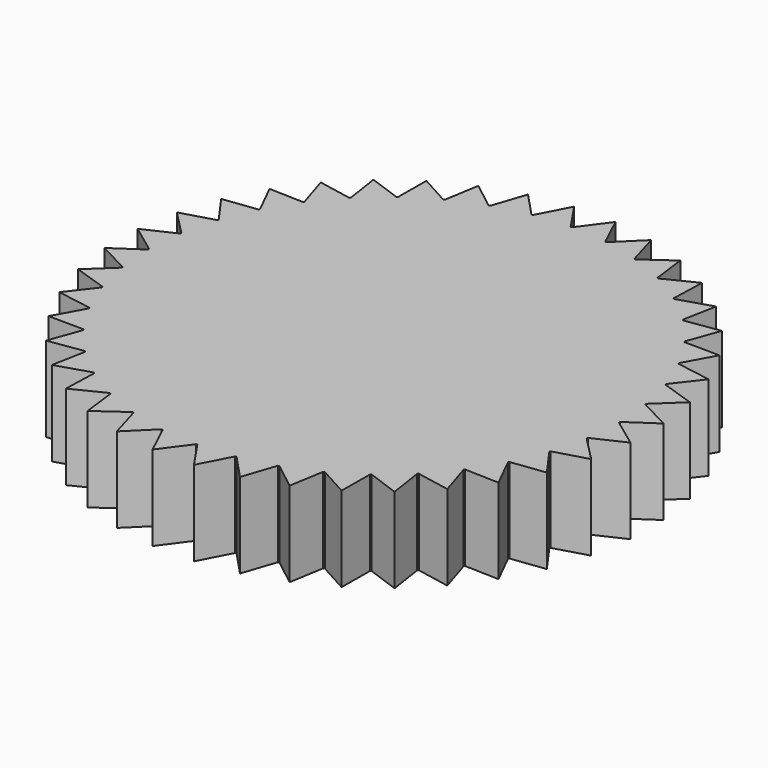
from build123d import *

# Parameters (mm, degrees)
F1_DEPTH = 12.7


with BuildPart() as f1:
    # F0 (on Top) → F1 (new body)
    with BuildSketch(Plane.XY):
        with BuildLine():
            ThreePointArc((34.693947, -5.306769), (34.996437, -2.661044), (35.09746, 0))
            ThreePointArc((35.09746, 0), (35.097337, 0.092948), (35.096968, 0.185896))
            ThreePointArc((35.096968, 0.185896), (34.981851, 2.846367), (34.665353, 5.490452))
            ThreePointArc((34.665353, 5.490452), (34.650691, 5.582237), (34.635786, 5.673982))
            ThreePointArc((34.635786, 5.673982), (34.105897, 8.283691), (33.379669, 10.845712))
            ThreePointArc((33.379669, 10.845712), (33.350829, 10.934073), (33.321755, 11.022357))
            ThreePointArc((33.321755, 11.022357), (32.390142, 13.517042), (31.272066, 15.933914))
            ThreePointArc((31.272066, 15.933914), (31.229759, 16.016675), (31.187233, 16.099324))
            ThreePointArc((31.187233, 16.099324), (29.876834, 18.41756), (28.394442, 20.62977))
            ThreePointArc((28.394442, 20.62977), (28.339709, 20.704894), (28.284777, 20.779873))
            ThreePointArc((28.284777, 20.779873), (26.62786, 22.864576), (24.817652, 24.817652))
            ThreePointArc((24.817652, 24.817652), (24.751841, 24.88329), (24.685856, 24.948752))
            ThreePointArc((24.685856, 24.948752), (22.723219, 26.74859), (20.62977, 28.394442))
            ThreePointArc((20.62977, 28.394442), (20.554501, 28.448976), (20.479088, 28.50331))
            ThreePointArc((20.479088, 28.50331), (18.259057, 29.973965), (15.933914, 31.272066))
            ThreePointArc((15.933914, 31.272066), (15.85104, 31.314154), (15.768056, 31.356022))
            ThreePointArc((15.768056, 31.356022), (13.345297, 32.461281), (10.845712, 33.379669))
            ThreePointArc((10.845712, 33.379669), (10.757275, 33.408274), (10.668762, 33.436645))
            ThreePointArc((10.668762, 33.436645), (8.102931, 34.149293), (5.490452, 34.665353))
            ThreePointArc((5.490452, 34.665353), (5.398629, 34.679771), (5.306769, 34.693947))
            ThreePointArc((5.306769, 34.693947), (2.661044, 34.996437), (0, 35.09746))
            ThreePointArc((0, 35.09746), (-0.092948, 35.097337), (-0.185896, 35.096968))
            ThreePointArc((-0.185896, 35.096968), (-2.846367, 34.981851), (-5.490452, 34.665353))
            ThreePointArc((-5.490452, 34.665353), (-5.582237, 34.650691), (-5.673982, 34.635786))
            ThreePointArc((-5.673982, 34.635786), (-8.283691, 34.105897), (-10.845712, 33.379669))
            ThreePointArc((-10.845712, 33.379669), (-10.934073, 33.350829), (-11.022357, 33.321755))
            ThreePointArc((-11.022357, 33.321755), (-13.517042, 32.390142), (-15.933914, 31.272066))
            ThreePointArc((-15.933914, 31.272066), (-16.016675, 31.229759), (-16.099324, 31.187233))
            ThreePointArc((-16.099324, 31.187233), (-18.41756, 29.876834), (-20.62977, 28.394442))
            ThreePointArc((-20.62977, 28.394442), (-20.704894, 28.339709), (-20.779873, 28.284777))
            ThreePointArc((-20.779873, 28.284777), (-22.864576, 26.62786), (-24.817652, 24.817652))
            ThreePointArc((-24.817652, 24.817652), (-24.88329, 24.751841), (-24.948752, 24.685856))
            ThreePointArc((-24.948752, 24.685856), (-26.74859, 22.723219), (-28.394442, 20.62977))
            ThreePointArc((-28.394442, 20.62977), (-28.448976, 20.554501), (-28.50331, 20.479088))
            ThreePointArc((-28.50331, 20.479088), (-29.973965, 18.259057), (-31.272066, 15.933914))
            ThreePointArc((-31.272066, 15.933914), (-31.314154, 15.85104), (-31.356022, 15.768056))
            ThreePointArc((-31.356022, 15.768056), (-32.461281, 13.345297), (-33.379669, 10.845712))
            ThreePointArc((-33.379669, 10.845712), (-33.408274, 10.757275), (-33.436645, 10.668762))
            ThreePointArc((-33.436645, 10.668762), (-34.149293, 8.102931), (-34.665353, 5.490452))
            ThreePointArc((-34.665353, 5.490452), (-34.679771, 5.398629), (-34.693947, 5.306769))
            ThreePointArc((-34.693947, 5.306769), (-34.996437, 2.661044), (-35.09746, 0))
            ThreePointArc((-35.09746, 0), (-35.097337, -0.092948), (-35.096968, -0.185896))
            ThreePointArc((-35.096968, -0.185896), (-34.981851, -2.846367), (-34.665353, -5.490452))
            ThreePointArc((-34.665353, -5.490452), (-34.650691, -5.582237), (-34.635786, -5.673982))
            ThreePointArc((-34.635786, -5.673982), (-34.105897, -8.283691), (-33.379669, -10.845712))
            ThreePointArc((-33.379669, -10.845712), (-33.350829, -10.934073), (-33.321755, -11.022357))
            ThreePointArc((-33.321755, -11.022357), (-32.390142, -13.517042), (-31.272066, -15.933914))
            ThreePointArc((-31.272066, -15.933914), (-31.229759, -16.016675), (-31.187233, -16.099324))
            ThreePointArc((-31.187233, -16.099324), (-29.876834, -18.41756), (-28.394442, -20.62977))
            ThreePointArc((-28.394442, -20.62977), (-28.339709, -20.704894), (-28.284777, -20.779873))
            ThreePointArc((-28.284777, -20.779873), (-26.62786, -22.864576), (-24.817652, -24.817652))
            ThreePointArc((-24.817652, -24.817652), (-24.751841, -24.88329), (-24.685856, -24.948752))
            ThreePointArc((-24.685856, -24.948752), (-22.723219, -26.74859), (-20.62977, -28.394442))
            ThreePointArc((-20.62977, -28.394442), (-20.554501, -28.448976), (-20.479088, -28.50331))
            ThreePointArc((-20.479088, -28.50331), (-18.259057, -29.973965), (-15.933914, -31.272066))
            ThreePointArc((-15.933914, -31.272066), (-15.85104, -31.314154), (-15.768056, -31.356022))
            ThreePointArc((-15.768056, -31.356022), (-13.345297, -32.461281), (-10.845712, -33.379669))
            ThreePointArc((-10.845712, -33.379669), (-10.757275, -33.408274), (-10.668762, -33.436645))
            ThreePointArc((-10.668762, -33.436645), (-8.102931, -34.149293), (-5.490452, -34.665353))
            ThreePointArc((-5.490452, -34.665353), (-5.398629, -34.679771), (-5.306769, -34.693947))
            ThreePointArc((-5.306769, -34.693947), (-2.661044, -34.996437), (0, -35.09746))
            ThreePointArc((0, -35.09746), (0.092948, -35.097337), (0.185896, -35.096968))
            ThreePointArc((0.185896, -35.096968), (2.846367, -34.981851), (5.490452, -34.665353))
            ThreePointArc((5.490452, -34.665353), (5.582237, -34.650691), (5.673982, -34.635786))
            ThreePointArc((5.673982, -34.635786), (8.283691, -34.105897), (10.845712, -33.379669))
            ThreePointArc((10.845712, -33.379669), (10.934073, -33.350829), (11.022357, -33.321755))
            ThreePointArc((11.022357, -33.321755), (13.517042, -32.390142), (15.933914, -31.272066))
            ThreePointArc((15.933914, -31.272066), (16.016675, -31.229759), (16.099324, -31.187233))
            ThreePointArc((16.099324, -31.187233), (18.41756, -29.876834), (20.62977, -28.394442))
            ThreePointArc((20.62977, -28.394442), (20.704894, -28.339709), (20.779873, -28.284777))
            ThreePointArc((20.779873, -28.284777), (22.864576, -26.62786), (24.817652, -24.817652))
            ThreePointArc((24.817652, -24.817652), (24.88329, -24.751841), (24.948752, -24.685856))
            ThreePointArc((24.948752, -24.685856), (26.74859, -22.723219), (28.394442, -20.62977))
            ThreePointArc((28.394442, -20.62977), (28.448976, -20.554501), (28.50331, -20.479088))
            ThreePointArc((28.50331, -20.479088), (29.973965, -18.259057), (31.272066, -15.933914))
            ThreePointArc((31.272066, -15.933914), (31.314154, -15.85104), (31.356022, -15.768056))
            ThreePointArc((31.356022, -15.768056), (32.461281, -13.345297), (33.379669, -10.845712))
            ThreePointArc((33.379669, -10.845712), (33.408274, -10.757275), (33.436645, -10.668762))
            ThreePointArc((33.436645, -10.668762), (34.149293, -8.102931), (34.665353, -5.490452))
            ThreePointArc((34.665353, -5.490452), (34.679771, -5.398629), (34.693947, -5.306769))
        make_face()
        with BuildLine():
            Line((39.324641, -3.129642), (35.09746, 0))
            ThreePointArc((35.09746, 0), (34.996437, -2.661044), (34.693947, -5.306769))
            Line((34.693947, -5.306769), (39.324641, -3.129642))
        make_face()
        with BuildLine():
            ThreePointArc((34.665353, 5.490452), (34.981851, 2.846367), (35.096968, 0.185896))
            Line((35.096968, 0.185896), (39.330073, 3.060619))
            Line((39.330073, 3.060619), (34.665353, 5.490452))
        make_face()
        with BuildLine():
            Line((38.350906, -9.24284), (34.665353, -5.490452))
            ThreePointArc((34.665353, -5.490452), (34.149293, -8.102931), (33.436645, -10.668762))
            Line((33.436645, -10.668762), (38.350906, -9.24284))
        make_face()
        with BuildLine():
            ThreePointArc((33.379669, 10.845712), (34.105897, 8.283691), (34.635786, 5.673982))
            Line((34.635786, 5.673982), (38.367069, 9.175516))
            Line((38.367069, 9.175516), (33.379669, 10.845712))
        make_face()
        with BuildLine():
            Line((36.432844, -15.128449), (33.379669, -10.845712))
            ThreePointArc((33.379669, -10.845712), (32.461281, -13.345297), (31.356022, -15.768056))
            Line((31.356022, -15.768056), (36.432844, -15.128449))
        make_face()
        with BuildLine():
            ThreePointArc((31.272066, 15.933914), (32.390142, 13.517042), (33.321755, 11.022357))
            Line((33.321755, 11.022357), (36.45934, 15.064482))
            Line((36.45934, 15.064482), (31.272066, 15.933914))
        make_face()
        with BuildLine():
            Line((33.617684, -20.641545), (31.272066, -15.933914))
            ThreePointArc((31.272066, -15.933914), (29.973965, -18.259057), (28.50331, -20.479088))
            Line((28.50331, -20.479088), (33.617684, -20.641545))
        make_face()
        with BuildLine():
            ThreePointArc((28.394442, 20.62977), (29.876834, 18.41756), (31.187233, 16.099324))
            Line((31.187233, 16.099324), (33.65386, 20.582511))
            Line((33.65386, 20.582511), (28.394442, 20.62977))
        make_face()
        with BuildLine():
            Line((29.974746, -25.646378), (28.394442, -20.62977))
            ThreePointArc((28.394442, -20.62977), (26.74859, -22.723219), (24.948752, -24.685856))
            Line((24.948752, -24.685856), (29.974746, -25.646378))
        make_face()
        with BuildLine():
            ThreePointArc((24.817652, 24.817652), (26.62786, 22.864576), (28.284777, 20.779873))
            Line((28.284777, 20.779873), (30.019711, 25.59373))
            Line((30.019711, 25.59373), (24.817652, 24.817652))
        make_face()
        with BuildLine():
            Line((25.59373, -30.019711), (24.817652, -24.817652))
            ThreePointArc((24.817652, -24.817652), (22.864576, -26.62786), (20.779873, -28.284777))
            Line((20.779873, -28.284777), (25.59373, -30.019711))
        make_face()
        with BuildLine():
            ThreePointArc((20.62977, 28.394442), (22.723219, 26.74859), (24.685856, 24.948752))
            Line((24.685856, 24.948752), (25.646378, 29.974746))
            Line((25.646378, 29.974746), (20.62977, 28.394442))
        make_face()
        with BuildLine():
            Line((20.582511, -33.65386), (20.62977, -28.394442))
            ThreePointArc((20.62977, -28.394442), (18.41756, -29.876834), (16.099324, -31.187233))
            Line((16.099324, -31.187233), (20.582511, -33.65386))
        make_face()
        with BuildLine():
            ThreePointArc((15.933914, 31.272066), (18.259057, 29.973965), (20.479088, 28.50331))
            Line((20.479088, 28.50331), (20.641545, 33.617684))
            Line((20.641545, 33.617684), (15.933914, 31.272066))
        make_face()
        with BuildLine():
            Line((15.064482, -36.45934), (15.933914, -31.272066))
            ThreePointArc((15.933914, -31.272066), (13.517042, -32.390142), (11.022357, -33.321755))
            Line((11.022357, -33.321755), (15.064482, -36.45934))
        make_face()
        with BuildLine():
            ThreePointArc((10.845712, 33.379669), (13.345297, 32.461281), (15.768056, 31.356022))
            Line((15.768056, 31.356022), (15.128449, 36.432844))
            Line((15.128449, 36.432844), (10.845712, 33.379669))
        make_face()
        with BuildLine():
            Line((9.175516, -38.367069), (10.845712, -33.379669))
            ThreePointArc((10.845712, -33.379669), (8.283691, -34.105897), (5.673982, -34.635786))
            Line((5.673982, -34.635786), (9.175516, -38.367069))
        make_face()
        with BuildLine():
            ThreePointArc((5.490452, 34.665353), (8.102931, 34.149293), (10.668762, 33.436645))
            Line((10.668762, 33.436645), (9.24284, 38.350906))
            Line((9.24284, 38.350906), (5.490452, 34.665353))
        make_face()
        with BuildLine():
            Line((3.060619, -39.330073), (5.490452, -34.665353))
            ThreePointArc((5.490452, -34.665353), (2.846367, -34.981851), (0.185896, -35.096968))
            Line((0.185896, -35.096968), (3.060619, -39.330073))
        make_face()
        with BuildLine():
            ThreePointArc((0, 35.09746), (2.661044, 34.996437), (5.306769, 34.693947))
            Line((5.306769, 34.693947), (3.129642, 39.324641))
            Line((3.129642, 39.324641), (0, 35.09746))
        make_face()
        with BuildLine():
            Line((-3.129642, -39.324641), (0, -35.09746))
            ThreePointArc((0, -35.09746), (-2.661044, -34.996437), (-5.306769, -34.693947))
            Line((-5.306769, -34.693947), (-3.129642, -39.324641))
        make_face()
        with BuildLine():
            ThreePointArc((-5.490452, 34.665353), (-2.846367, 34.981851), (-0.185896, 35.096968))
            Line((-0.185896, 35.096968), (-3.060619, 39.330073))
            Line((-3.060619, 39.330073), (-5.490452, 34.665353))
        make_face()
        with BuildLine():
            Line((-9.24284, -38.350906), (-5.490452, -34.665353))
            ThreePointArc((-5.490452, -34.665353), (-8.102931, -34.149293), (-10.668762, -33.436645))
            Line((-10.668762, -33.436645), (-9.24284, -38.350906))
        make_face()
        with BuildLine():
            ThreePointArc((-10.845712, 33.379669), (-8.283691, 34.105897), (-5.673982, 34.635786))
            Line((-5.673982, 34.635786), (-9.175516, 38.367069))
            Line((-9.175516, 38.367069), (-10.845712, 33.379669))
        make_face()
        with BuildLine():
            Line((-15.128449, -36.432844), (-10.845712, -33.379669))
            ThreePointArc((-10.845712, -33.379669), (-13.345297, -32.461281), (-15.768056, -31.356022))
            Line((-15.768056, -31.356022), (-15.128449, -36.432844))
        make_face()
        with BuildLine():
            ThreePointArc((-15.933914, 31.272066), (-13.517042, 32.390142), (-11.022357, 33.321755))
            Line((-11.022357, 33.321755), (-15.064482, 36.45934))
            Line((-15.064482, 36.45934), (-15.933914, 31.272066))
        make_face()
        with BuildLine():
            Line((-20.641545, -33.617684), (-15.933914, -31.272066))
            ThreePointArc((-15.933914, -31.272066), (-18.259057, -29.973965), (-20.479088, -28.50331))
            Line((-20.479088, -28.50331), (-20.641545, -33.617684))
        make_face()
        with BuildLine():
            ThreePointArc((-20.62977, 28.394442), (-18.41756, 29.876834), (-16.099324, 31.187233))
            Line((-16.099324, 31.187233), (-20.582511, 33.65386))
            Line((-20.582511, 33.65386), (-20.62977, 28.394442))
        make_face()
        with BuildLine():
            Line((-25.646378, -29.974746), (-20.62977, -28.394442))
            ThreePointArc((-20.62977, -28.394442), (-22.723219, -26.74859), (-24.685856, -24.948752))
            Line((-24.685856, -24.948752), (-25.646378, -29.974746))
        make_face()
        with BuildLine():
            ThreePointArc((-24.817652, 24.817652), (-22.864576, 26.62786), (-20.779873, 28.284777))
            Line((-20.779873, 28.284777), (-25.59373, 30.019711))
            Line((-25.59373, 30.019711), (-24.817652, 24.817652))
        make_face()
        with BuildLine():
            Line((-30.019711, -25.59373), (-24.817652, -24.817652))
            ThreePointArc((-24.817652, -24.817652), (-26.62786, -22.864576), (-28.284777, -20.779873))
            Line((-28.284777, -20.779873), (-30.019711, -25.59373))
        make_face()
        with BuildLine():
            ThreePointArc((-28.394442, 20.62977), (-26.74859, 22.723219), (-24.948752, 24.685856))
            Line((-24.948752, 24.685856), (-29.974746, 25.646378))
            Line((-29.974746, 25.646378), (-28.394442, 20.62977))
        make_face()
        with BuildLine():
            Line((-33.65386, -20.582511), (-28.394442, -20.62977))
            ThreePointArc((-28.394442, -20.62977), (-29.876834, -18.41756), (-31.187233, -16.099324))
            Line((-31.187233, -16.099324), (-33.65386, -20.582511))
        make_face()
        with BuildLine():
            ThreePointArc((-31.272066, 15.933914), (-29.973965, 18.259057), (-28.50331, 20.479088))
            Line((-28.50331, 20.479088), (-33.617684, 20.641545))
            Line((-33.617684, 20.641545), (-31.272066, 15.933914))
        make_face()
        with BuildLine():
            Line((-36.45934, -15.064482), (-31.272066, -15.933914))
            ThreePointArc((-31.272066, -15.933914), (-32.390142, -13.517042), (-33.321755, -11.022357))
            Line((-33.321755, -11.022357), (-36.45934, -15.064482))
        make_face()
        with BuildLine():
            ThreePointArc((-33.379669, 10.845712), (-32.461281, 13.345297), (-31.356022, 15.768056))
            Line((-31.356022, 15.768056), (-36.432844, 15.128449))
            Line((-36.432844, 15.128449), (-33.379669, 10.845712))
        make_face()
        with BuildLine():
            Line((-38.367069, -9.175516), (-33.379669, -10.845712))
            ThreePointArc((-33.379669, -10.845712), (-34.105897, -8.283691), (-34.635786, -5.673982))
            Line((-34.635786, -5.673982), (-38.367069, -9.175516))
        make_face()
        with BuildLine():
            ThreePointArc((-34.665353, 5.490452), (-34.149293, 8.102931), (-33.436645, 10.668762))
            Line((-33.436645, 10.668762), (-38.350906, 9.24284))
            Line((-38.350906, 9.24284), (-34.665353, 5.490452))
        make_face()
        with BuildLine():
            Line((-39.330073, -3.060619), (-34.665353, -5.490452))
            ThreePointArc((-34.665353, -5.490452), (-34.981851, -2.846367), (-35.096968, -0.185896))
            Line((-35.096968, -0.185896), (-39.330073, -3.060619))
        make_face()
        with BuildLine():
            ThreePointArc((-35.09746, 0), (-34.996437, 2.661044), (-34.693947, 5.306769))
            Line((-34.693947, 5.306769), (-39.324641, 3.129642))
            Line((-39.324641, 3.129642), (-35.09746, 0))
        make_face()
    extrude(amount=F1_DEPTH)


solid = f1.part
